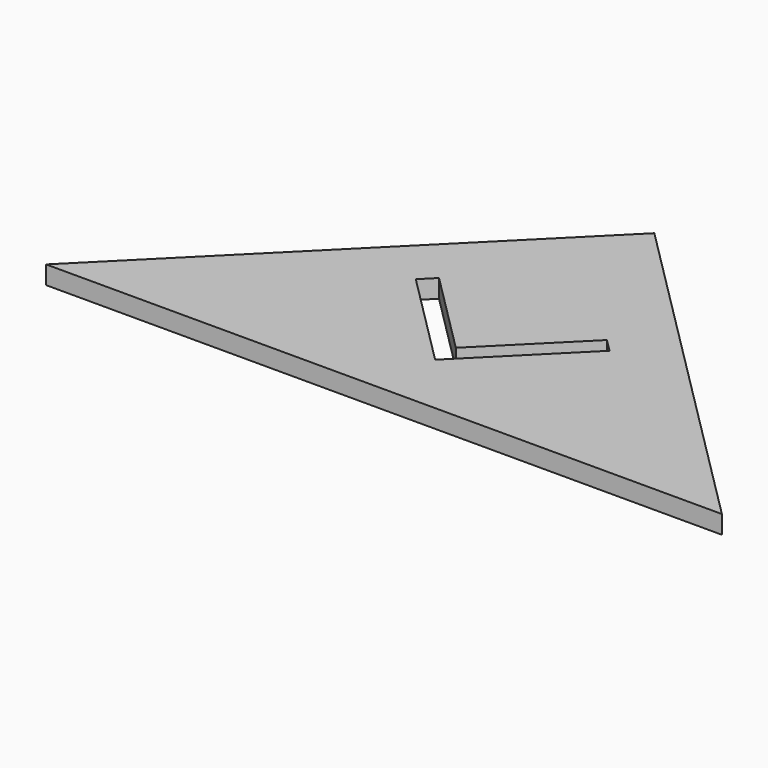
from build123d import *

# Parameters (mm, degrees)
BOX096_W                  = 7.5
BOX096_H                  = 1
BOX096_DEPTH              = 2
BOX094_W                  = 7.5
BOX094_H                  = 1
BOX094_DEPTH              = 2
FUSION020_PLACEMENT_ANGLE = 45
EXTRUDE002_DEPTH          = 1


with BuildPart() as cube096:
    # Box096 → Box096 (new body)
    with BuildSketch(Plane.XY):
        with Locations((3.75, 0.5)):
            Rectangle(BOX096_W, BOX096_H)
    extrude(amount=BOX096_DEPTH)


with BuildPart() as obj1:
    # Box094 → Box094 (new body)
    with BuildSketch(Plane(origin=(1, 0, 0), x_dir=(0, 1, 0), z_dir=(0, 0, 1))):
        with Locations((3.75, 0.5)):
            Rectangle(BOX094_W, BOX094_H)
    extrude(amount=BOX094_DEPTH)

    # Fusion020: union Cube096
    add(cube096.part)


with BuildPart() as obj1_1:
    # Fusion020 placement: moved
    add(obj1.part.moved(Location((0, -15, 0))).rotate(Axis((0, -15, 0), (0, 0, 1)), FUSION020_PLACEMENT_ANGLE))


with BuildPart() as cut011:
    # Sketch013 → Extrude002 (new body)
    with BuildSketch(Plane.XY):
        Polygon((0, 0), (18.5, -18.5), (-18.5, -18.5), align=None)
    extrude(amount=EXTRUDE002_DEPTH)

    # Cut011: cut obj1
    add(obj1_1.part, mode=Mode.SUBTRACT)


solid = cut011.part
